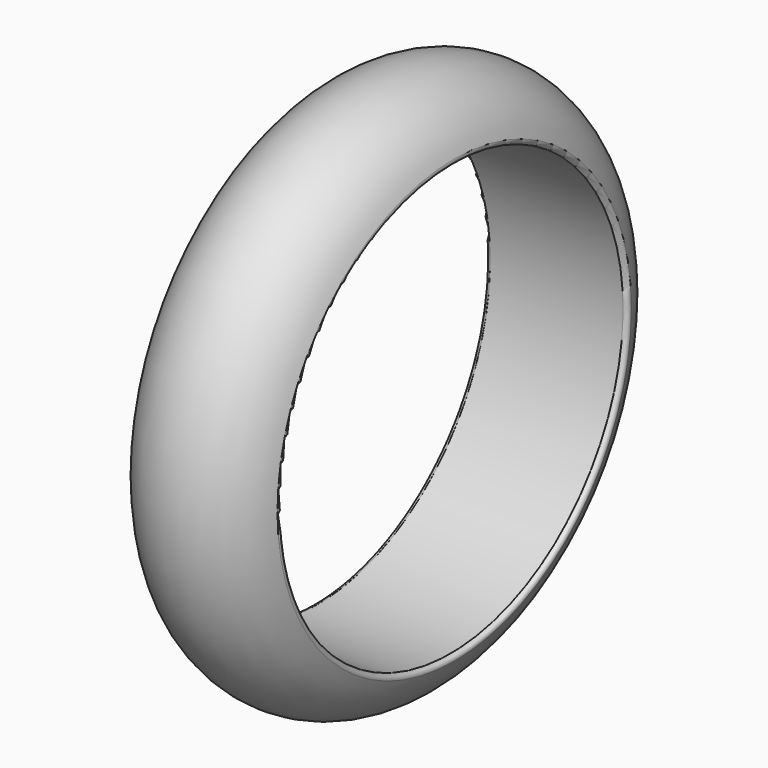
from build123d import *


with BuildPart() as f1:
    # F0 (on Front) → F1 (revolve)
    with BuildSketch(Plane.XZ):
        with BuildLine():
            ThreePointArc((0.067452, 9.762842), (0.093257, 9.599898), (0.24025, 9.525))
            Line((0.24025, 9.525), (6.10975, 9.525))
            ThreePointArc((6.10975, 9.525), (6.256743, 9.599898), (6.282548, 9.762842))
            ThreePointArc((6.282548, 9.762842), (3.175, 12.020555), (0.067452, 9.762842))
        make_face()
    revolve(axis=Axis((2.051666, 0, 0), (1, 0, 0)))


solid = f1.part
